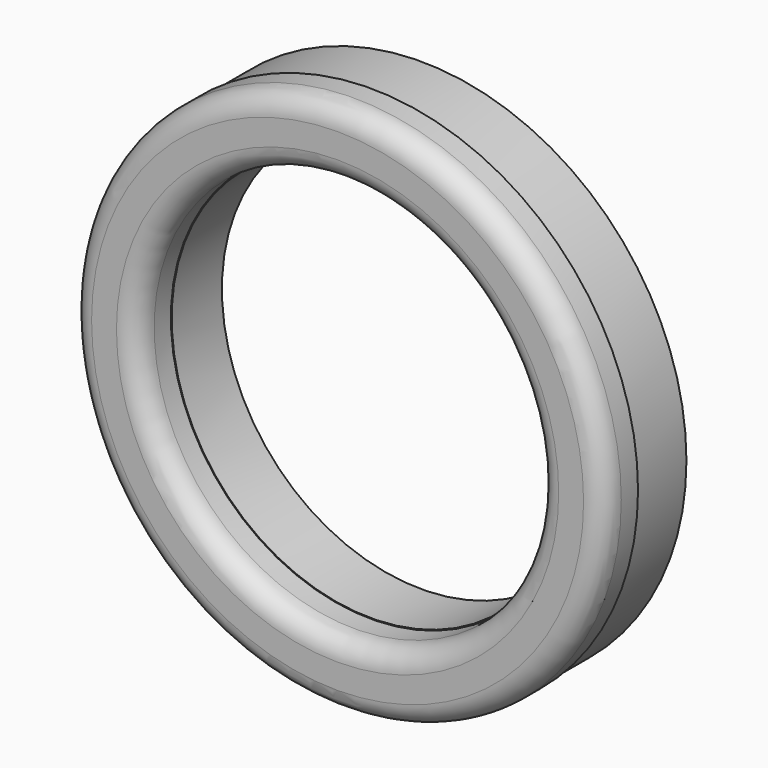
from build123d import *

# Parameters (mm, degrees)
F0_R     = 25.325
F0_R_2   = 24.125
F0_R_3   = 20.25
F0_R_4   = 19.05
F1_DEPTH = 6
F3_R     = 25.5
F3_R_2   = 19.125
F4_DEPTH = 4
F5_R     = 2


with BuildPart() as f1:
    # F0 (on Front) → F1 (new body)
    with BuildSketch(Plane.XZ):
        Circle(F0_R)
        Circle(F0_R_2, mode=Mode.SUBTRACT)
        Circle(F0_R_3)
        Circle(F0_R_4, mode=Mode.SUBTRACT)
    extrude(amount=F1_DEPTH)


with BuildPart() as f4:
    # F3 (on offset) → F4 (new body)
    with BuildSketch(Plane.XZ.offset(6)):
        Circle(F3_R)
        Circle(F3_R_2, mode=Mode.SUBTRACT)
    extrude(amount=F4_DEPTH)

    # F5
    f5_edges = [f4.edges().sort_by_distance(p)[0] for p in [
        (-25.5, -10, 0),
        (-19.125, -10, 0),
    ]]
    fillet(f5_edges, radius=F5_R)


solid = Compound([f1.part, f4.part])
